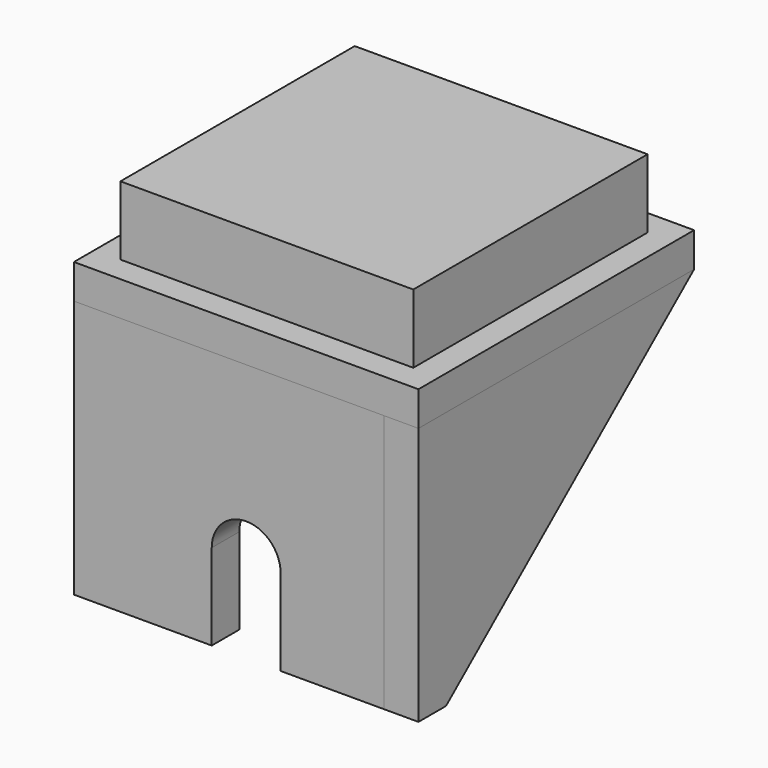
from build123d import *

# Parameters (mm, degrees)
SKETCH_W     = 20
SKETCH_H     = 20
PAD_DEPTH    = 2
SKETCH001_W  = 17
SKETCH001_H  = 17
PAD001_DEPTH = 4
PAD003_DEPTH = 2
PAD004_DEPTH = 2


with BuildPart() as body:
    # Sketch → Pad (new body)
    with BuildSketch(Plane.XY):
        with Locations((10, 10)):
            Rectangle(SKETCH_W, SKETCH_H)
    extrude(amount=PAD_DEPTH)


with BuildPart() as body001:
    # Sketch001 → Pad001 (new body)
    with BuildSketch(Plane.XY):
        with Locations((10, 10)):
            Rectangle(SKETCH001_W, SKETCH001_H)
    extrude(amount=PAD001_DEPTH)


with BuildPart() as body001_1:
    # Body001 placement: moved
    add(body001.part.moved(Location((0, 0, 2))))


with BuildPart() as body003:
    # Sketch003 → Pad003 (new body)
    with BuildSketch(Plane.XZ):
        with BuildLine():
            Line((0, 0), (20, 0))
            Line((20, 0), (20, -15))
            Line((12, -15), (20, -15))
            Line((12, -15), (12, -10))
            ThreePointArc((12, -10), (10, -8), (8, -10))
            Line((8, -15), (8, -10))
            Line((8, -15), (0, -15))
            Line((0, -15), (0, 0))
        make_face()
    extrude(amount=PAD003_DEPTH)


with BuildPart() as body003_1:
    # Body003 placement: moved
    add(body003.part.moved(Location((0, 2, 0))))


with BuildPart() as body005:
    # Sketch004 → Pad004 (new body)
    with BuildSketch(Plane.YZ):
        Polygon((0, 0), (20, 0), (2, -15), (0, -15), align=None)
    extrude(amount=PAD004_DEPTH)


with BuildPart() as body005_1:
    # Body005 placement: moved
    add(body005.part.moved(Location((18, 0, 0))))


solid = Compound([body.part, body001_1.part, body003_1.part, body005_1.part])
